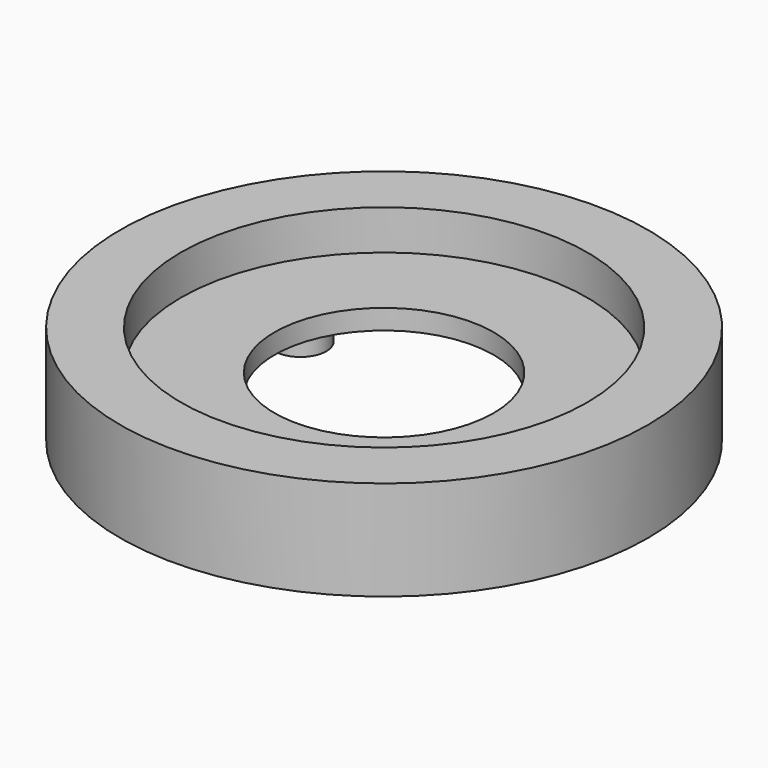
from build123d import *

# Parameters (mm, degrees)
SKETCH_R        = 13.25
PAD_DEPTH       = 5
SKETCH001_R     = 10.2
POCKET_DEPTH    = 2
SKETCH002_R     = 12.05
POCKET001_DEPTH = 2
SKETCH003_R     = 5.5
POCKET002_DEPTH = 5
SKETCH004_R     = 1.3
PAD001_DEPTH    = 2


with BuildPart() as part:
    # Sketch → Pad (new body)
    with BuildSketch(Plane.XY):
        Circle(SKETCH_R)
    extrude(amount=PAD_DEPTH)

    # Sketch001 → Pocket (cut)
    with BuildSketch(Plane.XY.offset(5)):
        Circle(SKETCH001_R)
    extrude(amount=-POCKET_DEPTH, mode=Mode.SUBTRACT)

    # Sketch002 → Pocket001 (cut)
    with BuildSketch(Plane(origin=(0, 0, 0), x_dir=(1, 0, 0), z_dir=(0, 0, -1))):
        Circle(SKETCH002_R)
    extrude(amount=-POCKET001_DEPTH, mode=Mode.SUBTRACT)

    # Sketch003 → Pocket002 (cut)
    with BuildSketch(Plane(origin=(0, 0, 2), x_dir=(1, 0, 0), z_dir=(0, 0, -1))):
        Circle(SKETCH003_R)
    extrude(amount=-POCKET002_DEPTH, mode=Mode.SUBTRACT)

    # Sketch004 → Pad001 (new body)
    with BuildSketch(Plane(origin=(0, 0, 2), x_dir=(1, 0, 0), z_dir=(0, 0, -1))):
        with Locations((0, 9.00666)):
            Circle(SKETCH004_R)
        with Locations((7.8, -4.50333)):
            Circle(SKETCH004_R)
        with Locations((-7.8, -4.50333)):
            Circle(SKETCH004_R)
    extrude(amount=PAD001_DEPTH)


solid = part.part
